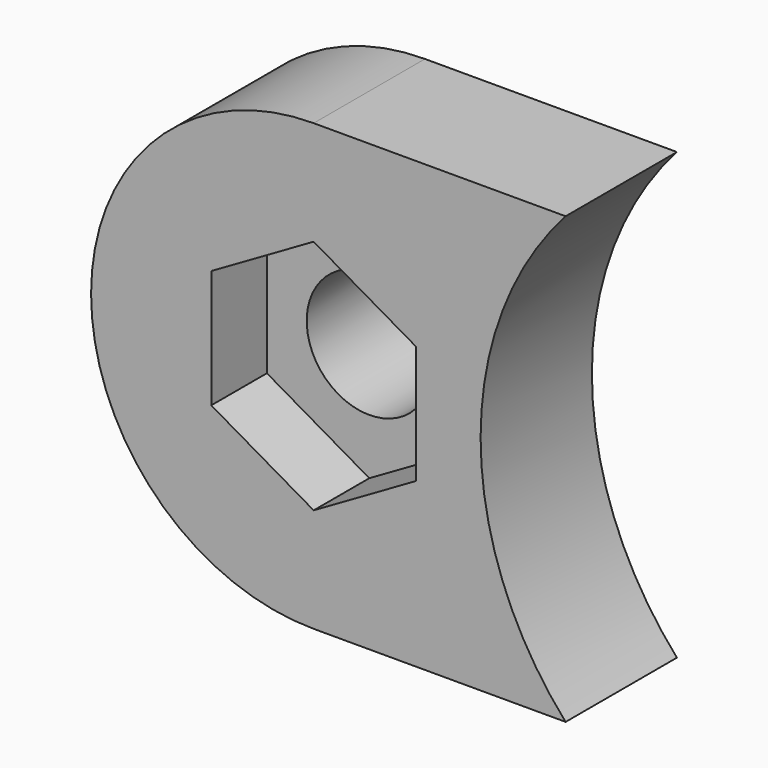
from build123d import *

# Parameters (mm, degrees)
PAD023_DEPTH      = 5
BOX003_W          = 5.4
BOX003_H          = 5.4
BOX003_DEPTH      = 4
CYLINDER064_R     = 2.25
CYLINDER064_DEPTH = 9
POCKET005_DEPTH   = 2.5


with BuildPart() as part:
    # Sketch033 → Pad023 (new body)
    with BuildSketch(Plane.XZ):
        with BuildLine():
            ThreePointArc((-18, 8), (-26, 0), (-18, -8))
            Line((-18, -8), (-8.944272, -8))
            ThreePointArc((-8.944272, 8), (-12, 0), (-8.944272, -8))
            Line((-18, 8), (-8.944272, 8))
        make_face()
    extrude(amount=PAD023_DEPTH)

    # Box003 → Box003 (join)
    with BuildSketch(Plane(origin=(-20.7, 4, -2.7), x_dir=(1, 0, 0), z_dir=(0, -1, 0))):
        with Locations((2.7, 2.7)):
            Rectangle(BOX003_W, BOX003_H)
    extrude(amount=BOX003_DEPTH)

    # Cylinder064 → Cylinder064 (cut)
    with BuildSketch(Plane(origin=(-18, 4, 0), x_dir=(1, 0, 0), z_dir=(0, -1, 0))):
        Circle(CYLINDER064_R)
    extrude(amount=CYLINDER064_DEPTH, mode=Mode.SUBTRACT)

    # Sketch035 (on Face5 of Cylinder064) → Pocket005 (cut)
    with BuildSketch(Plane(origin=(-18, -5, 0), x_dir=(1, 0, 0), z_dir=(0, -1, 0))):
        Polygon((3.680608, 2.125), (0, 4.25), (-3.680608, 2.125), (-3.680608, -2.125), (0, -4.25), (3.680608, -2.125), align=None)
    extrude(amount=-POCKET005_DEPTH, mode=Mode.SUBTRACT)


with BuildPart() as part_1:
    # Body035 placement: moved
    add(part.part.moved(Location((0, -5, 0))))


solid = part_1.part
